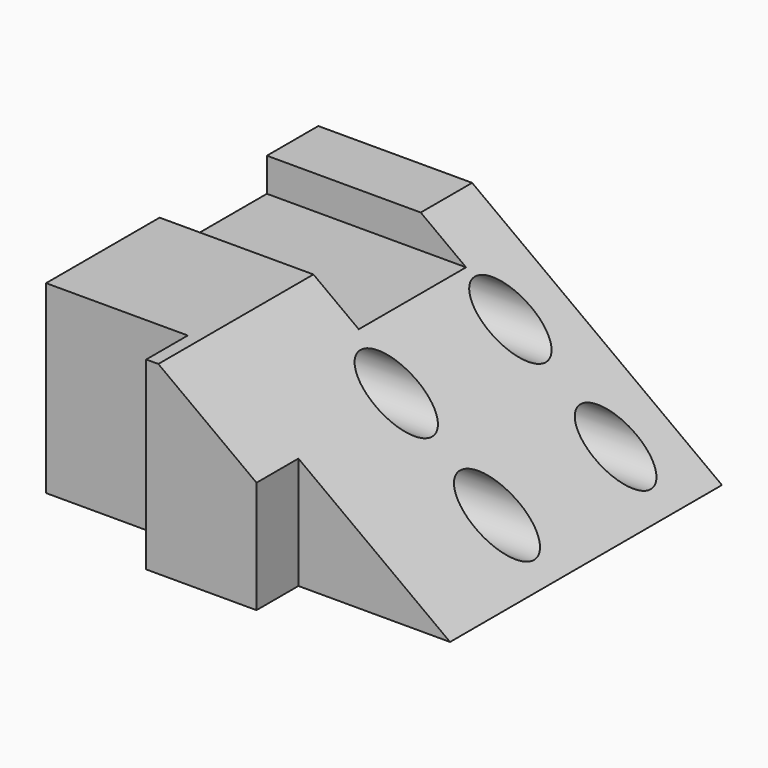
from build123d import *

# Parameters (mm, degrees)
F0_W          = 235.2761279326
F0_H          = 107.4857413769
F1_DEPTH      = 151.892
F1_DEPTH_BACK = 76.2
F3_DEPTH      = 237.236
F3_DEPTH_BACK = 76.2
F4_W          = 77.9956504703
F4_H          = 36.5806035697
F5_DEPTH      = 158.242
F6_R          = 15.4248239937
F6_R_2        = 15.9308513278
F6_R_3        = 15.1256103557
F6_R_4        = 15.251280461
F7_DEPTH      = 184.658
F7_DEPTH_BACK = 146.812
F8_W          = 88.170285026
F8_H          = 30.4754237933
F9_DEPTH      = 160.528
F10_W         = 82.4058901053
F10_H         = 30.2224318786
F11_DEPTH     = 127.762


with BuildPart() as f1:
    # F0 (on Front) → F1 (new body, two sides)
    with BuildSketch(Plane.XZ) as f1_sk:
        with Locations((1.289183856, 0)):
            Rectangle(F0_W, F0_H)
    extrude(amount=F1_DEPTH)
    extrude(f1_sk.sketch, amount=-F1_DEPTH_BACK)

    # F2 (on Front) → F3 (cut, two sides)
    with BuildSketch(Plane.XZ) as f3_sk:
        Polygon((126.138061285, 57.2444498539), (-31.619194895, 57.2444498539), (126.138061285, -59.499990195), align=None)
    extrude(amount=F3_DEPTH, mode=Mode.SUBTRACT)
    extrude(f3_sk.sketch, amount=-F3_DEPTH_BACK, mode=Mode.SUBTRACT)

    # F4 (on Right) → F5 (cut)
    with BuildSketch(Plane.YZ):
        with Locations((-0.1611486077, 52.5342617184)):
            Rectangle(F4_W, F4_H)
    extrude(amount=-F5_DEPTH, mode=Mode.SUBTRACT)

    # F6 (on Right) → F7 (cut, two sides)
    with BuildSketch(Plane.YZ) as f7_sk:
        with Locations((-46.7329323292, 13.6170089245)):
            Circle(F6_R)
        with Locations((-46.7329323292, -29.7318119556)):
            Circle(F6_R_2)
        with Locations((39.4812710583, -29.7318119556)):
            Circle(F6_R_3)
        with Locations((39.4812710583, 15.550785698)):
            Circle(F6_R_4)
    extrude(amount=-F7_DEPTH, mode=Mode.SUBTRACT)
    extrude(f7_sk.sketch, amount=F7_DEPTH_BACK, mode=Mode.SUBTRACT)

    # F8 (on face) → F9 (cut)
    with BuildSketch(Plane(origin=(0, 0, -53.7428706884), x_dir=(1, 0, 0), z_dir=(0, 0, -1))):
        with Locations((74.2732988048, 136.6542881033)):
            Rectangle(F8_W, F8_H)
    extrude(amount=-F9_DEPTH, mode=Mode.SUBTRACT)

    # F10 (on face) → F11 (cut)
    with BuildSketch(Plane(origin=(0, 0, -53.7428706884), x_dir=(1, 0, 0), z_dir=(0, 0, -1))):
        with Locations((-75.1459350577, 136.7807840607)):
            Rectangle(F10_W, F10_H)
    extrude(amount=-F11_DEPTH, mode=Mode.SUBTRACT)


solid = f1.part
